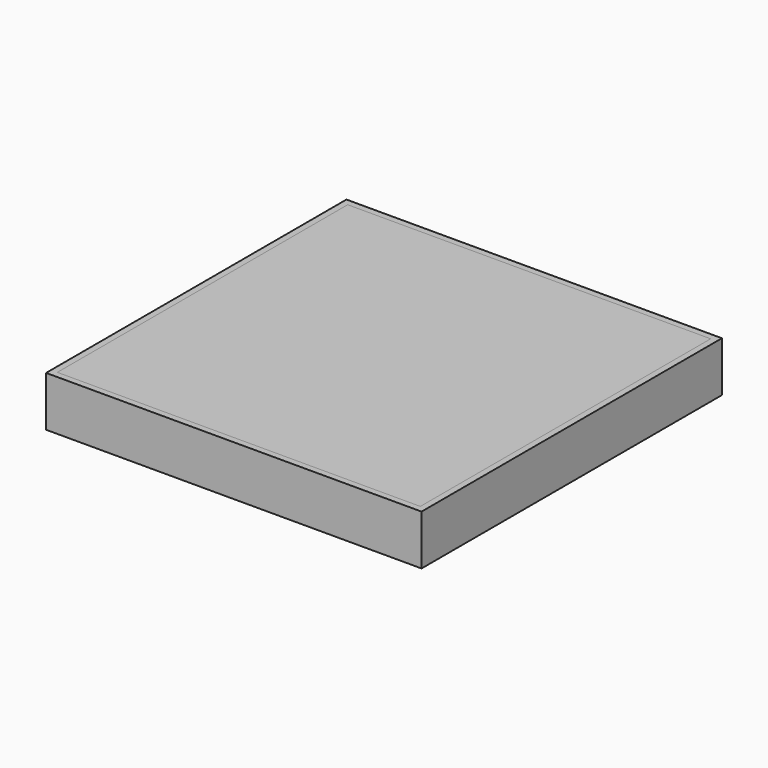
from build123d import *

# Parameters (mm, degrees)
F0_W     = 1500
F0_H     = 1500
F1_DEPTH = 25
F2_W     = 1500
F2_H     = 1500
F2_W_2   = 1450
F2_H_2   = 1450
F3_DEPTH = 175
F4_DEPTH = 25
F5_DEPTH = 125
F6_DEPTH = 25


with BuildPart() as f1:
    # F0 (on Top) → F1 (new body)
    with BuildSketch(Plane.XY):
        Rectangle(F0_W, F0_H)
    extrude(amount=F1_DEPTH)

    # F2 (on face) → F3 (join)
    with BuildSketch(Plane.XY.offset(25)):
        Rectangle(F2_W, F2_H)
        Rectangle(F2_W_2, F2_H_2, mode=Mode.SUBTRACT)
    extrude(amount=F3_DEPTH)


with BuildPart() as f4:
    # F4 (new): a face of the model
    f4_faces = [f1.part.faces().sort_by_distance(p)[0] for p in [
        (0, 0, 25),
    ]]
    extrude(f4_faces, amount=F4_DEPTH)


with BuildPart() as f5:
    # F5 (new): a face of the model
    f5_faces = [f4.part.faces().sort_by_distance(p)[0] for p in [
        (0, 0, 50),
    ]]
    extrude(f5_faces, amount=F5_DEPTH)


with BuildPart() as f6:
    # F6 (new): a face of the model
    f6_faces = [f5.part.faces().sort_by_distance(p)[0] for p in [
        (0, 0, 175),
    ]]
    extrude(f6_faces, amount=F6_DEPTH)


solid = Compound([f1.part, f4.part, f5.part, f6.part])
